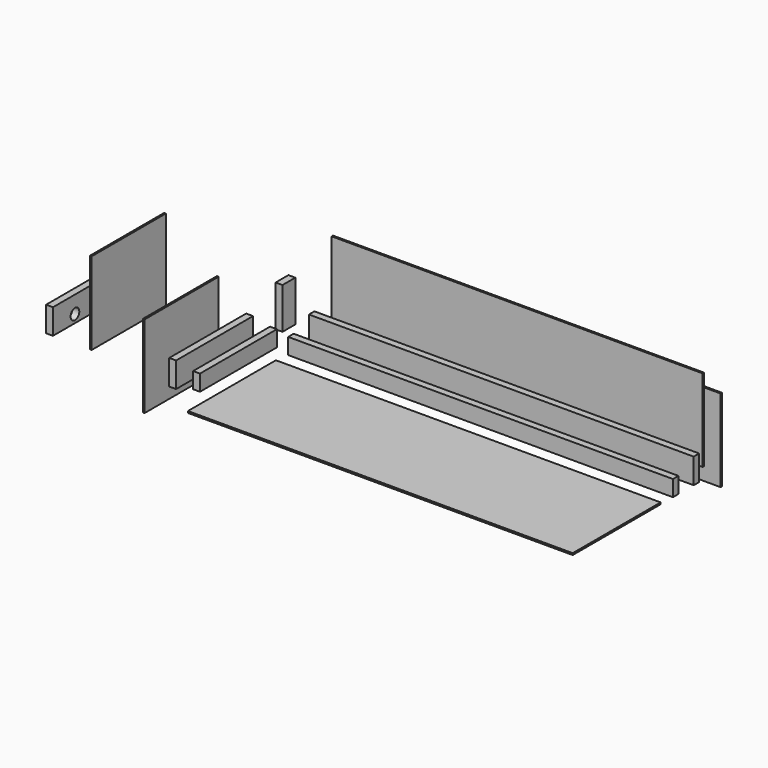
from build123d import *

# Parameters (mm, degrees)
F0_W      = 38.1
F0_H      = 88.9
F1_DEPTH  = 2133.6
F2_W      = 38.1
F2_H      = 88.9
F3_DEPTH  = 533.4
F4_W      = 38.1
F4_H      = 139.7
F5_DEPTH  = 2133.6
F6_W      = 38.1
F6_H      = 139.7
F7_DEPTH  = 533.4
F8_W      = 38.1
F8_H      = 88.9
F9_DEPTH  = 228.6
F10_W     = 2133.6
F10_H     = 609.6
F11_DEPTH = 9.525
F12_W     = 9.525
F12_H     = 457.2
F13_DEPTH = 2057.4
F14_W     = 9.525
F14_H     = 457.2
F15_DEPTH = 2057.4
F16_W     = 9.525
F16_H     = 457.2
F17_DEPTH = 514.35
F18_W     = 9.525
F18_H     = 457.2
F19_DEPTH = 514.35
F20_R     = 28.321
F21_DEPTH = 25.4
F22_W     = 38.1
F22_H     = 139.7
F23_DEPTH = 533.4
F24_R     = 30.1625
F25_DEPTH = 38.1


with BuildPart() as f1:
    # F0 (on Right) → F1 (new body)
    with BuildSketch(Plane.YZ):
        with Locations((-19.05, 44.45)):
            Rectangle(F0_W, F0_H)
    extrude(amount=F1_DEPTH)


with BuildPart() as f3:
    # F2 (on Front) → F3 (new body)
    with BuildSketch(Plane.XZ):
        with Locations((-111.913837, 36.477584)):
            Rectangle(F2_W, F2_H)
    extrude(amount=F3_DEPTH)


with BuildPart() as f5:
    # F4 (on Right) → F5 (new body)
    with BuildSketch(Plane.YZ):
        with Locations((124.870102, 69.85)):
            Rectangle(F4_W, F4_H)
    extrude(amount=F5_DEPTH)


with BuildPart() as f7:
    # F6 (on Front) → F7 (new body)
    with BuildSketch(Plane.XZ):
        with Locations((-244.33665, 31.989101)):
            Rectangle(F6_W, F6_H)
    extrude(amount=F7_DEPTH)


with BuildPart() as f9:
    # F8 (on Top) → F9 (new body)
    with BuildSketch(Plane.XY):
        with Locations((-174.478993, 161.077559)):
            Rectangle(F8_W, F8_H)
    extrude(amount=F9_DEPTH)


with BuildPart() as f11:
    # F10 (on Top) → F11 (new body)
    with BuildSketch(Plane.XY):
        with Locations((1066.8, -428.116654)):
            Rectangle(F10_W, F10_H)
    extrude(amount=F11_DEPTH)


with BuildPart() as f13:
    # F12 (on Right) → F13 (new body)
    with BuildSketch(Plane.YZ):
        with Locations((268.015032, 228.6)):
            Rectangle(F12_W, F12_H)
    extrude(amount=F13_DEPTH)


with BuildPart() as f15:
    # F14 (on Right) → F15 (new body)
    with BuildSketch(Plane.YZ):
        with Locations((392.010808, 80.081202)):
            Rectangle(F14_W, F14_H)
    extrude(amount=F15_DEPTH)

    # F20 (on face) → F21 (cut)
    with BuildSketch(Plane(origin=(0, 396.773308, 0), x_dir=(-1, 0, 0), z_dir=(0, 1, 0))):
        with Locations((-1905, 181.681202)):
            Circle(F20_R)
    extrude(amount=-F21_DEPTH, mode=Mode.SUBTRACT)


with BuildPart() as f17:
    # F16 (on Front) → F17 (new body)
    with BuildSketch(Plane.XZ):
        with Locations((-420.448571, 3.57252)):
            Rectangle(F16_W, F16_H)
    extrude(amount=F17_DEPTH)


with BuildPart() as f19:
    # F18 (on Front) → F19 (new body)
    with BuildSketch(Plane.XZ):
        with Locations((-713.801622, 216.40639)):
            Rectangle(F18_W, F18_H)
    extrude(amount=F19_DEPTH)


with BuildPart() as f23:
    # F22 (on Front) → F23 (new body)
    with BuildSketch(Plane.XZ):
        with Locations((-927.142379, 69.85)):
            Rectangle(F22_W, F22_H)
    extrude(amount=F23_DEPTH)

    # F24 (on face) → F25 (cut)
    with BuildSketch(Plane(origin=(-946.192379, 0, 0), x_dir=(0, -1, 0), z_dir=(-1, 0, 0))):
        with Locations((381, 44.45)):
            Circle(F24_R)
    extrude(amount=-F25_DEPTH, mode=Mode.SUBTRACT)


solid = Compound([f1.part, f3.part, f5.part, f7.part, f9.part, f11.part, f13.part, f15.part, f17.part, f19.part, f23.part])
